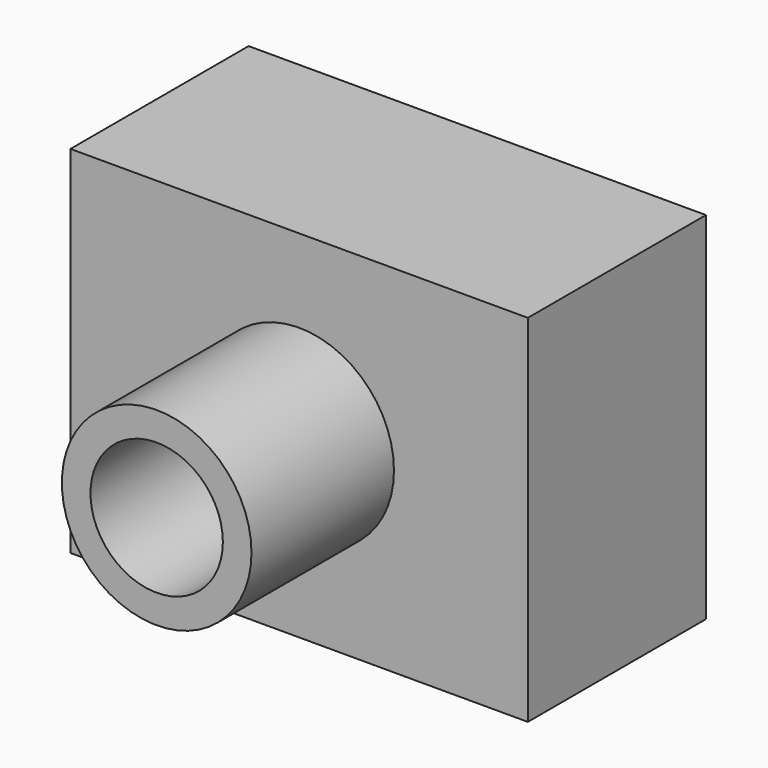
from build123d import *

# Parameters (mm, degrees)
F0_W     = 130.451084
F0_H     = 101.461962
F1_DEPTH = 63.5
F2_R     = 27.0412
F3_DEPTH = 50.8
F4_R     = 18.876355
F5_DEPTH = 179.578


with BuildPart() as f1:
    # F0 (on Front) → F1 (new body)
    with BuildSketch(Plane.XZ):
        Rectangle(F0_W, F0_H)
    extrude(amount=F1_DEPTH)

    # F2 (on face) → F3 (join)
    with BuildSketch(Plane.XZ.offset(63.5)):
        Circle(F2_R)
    extrude(amount=F3_DEPTH)

    # F4 (on face) → F5 (cut)
    with BuildSketch(Plane.XZ.offset(114.3)):
        Circle(F4_R)
    extrude(amount=-F5_DEPTH, mode=Mode.SUBTRACT)


solid = f1.part
